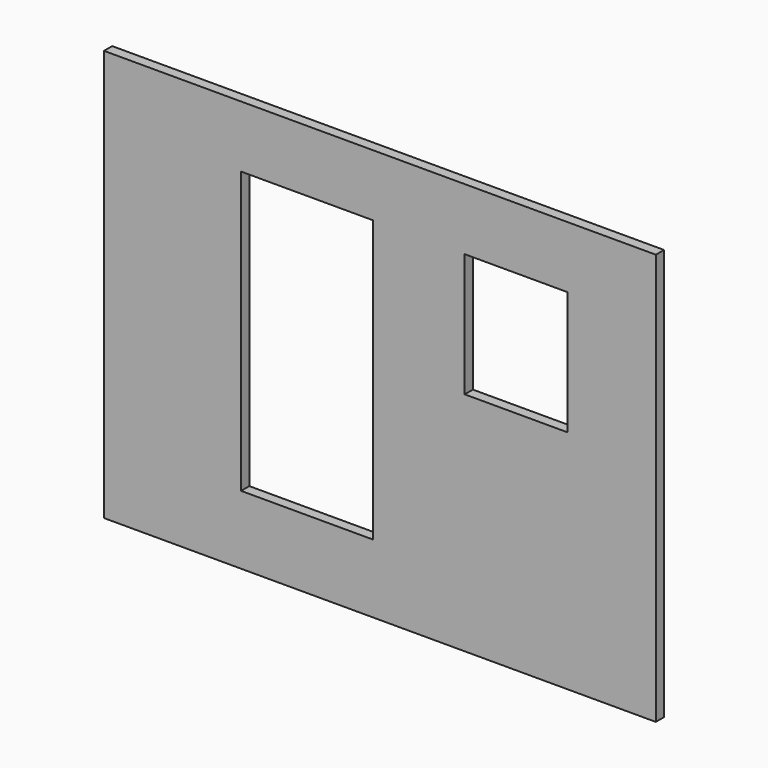
from build123d import *

# Parameters (mm, degrees)
F0_W     = 4089.4
F0_H     = 76.2
F1_DEPTH = 3048
F2_W     = 977.9
F2_H     = 2082.8
F3_DEPTH = 76.2
F4_W     = 762
F4_H     = 914.4
F5_DEPTH = 76.2


with BuildPart() as f1:
    # F0 (on Top) → F1 (new body)
    with BuildSketch(Plane.XY):
        with Locations((-2044.7, -38.1)):
            Rectangle(F0_W, F0_H)
    extrude(amount=F1_DEPTH)

    # F2 (on face) → F3 (cut, through all)
    with BuildSketch(Plane.XZ.offset(76.2)):
        with Locations((-2584.45, 1549.4)):
            Rectangle(F2_W, F2_H)
    extrude(amount=-F3_DEPTH, mode=Mode.SUBTRACT)

    # F4 (on face) → F5 (cut, through all)
    with BuildSketch(Plane.XZ.offset(76.2)):
        with Locations((-1035.126132, 2133.6)):
            Rectangle(F4_W, F4_H)
    extrude(amount=-F5_DEPTH, mode=Mode.SUBTRACT)


solid = f1.part
